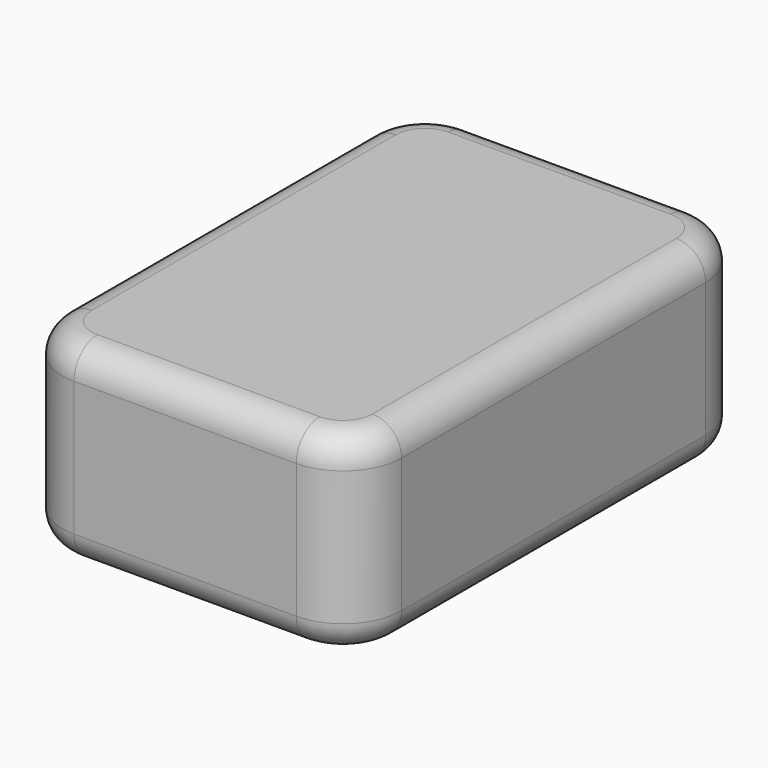
from build123d import *

# Parameters (mm, degrees)
F0_W     = 580
F0_H     = 850
F1_DEPTH = 330
F2_R     = 100
F3_R     = 50


with BuildPart() as f1:
    # F0 (on Top) → F1 (new body)
    with BuildSketch(Plane.XY):
        with Locations((290, -425)):
            Rectangle(F0_W, F0_H)
    extrude(amount=F1_DEPTH)

    # F2
    f2_edges = [f1.edges().sort_by_distance(p)[0] for p in [
        (580, -850, 165),
        (580, 0, 165),
        (0, -850, 165),
        (0, 0, 165),
    ]]
    fillet(f2_edges, radius=F2_R)

    # F3
    f3_edges = [f1.edges().sort_by_distance(p)[0] for p in [
        (290, 0, 330),
        (550.710678, -29.289322, 330),
        (29.289322, -29.289322, 330),
        (580, -425, 330),
        (0, -425, 330),
        (550.710678, -820.710678, 330),
        (29.289322, -820.710678, 330),
        (290, -850, 330),
        (290, 0, 0),
        (550.710678, -29.289322, 0),
        (29.289322, -29.289322, 0),
        (580, -425, 0),
        (0, -425, 0),
        (550.710678, -820.710678, 0),
        (29.289322, -820.710678, 0),
        (290, -850, 0),
    ]]
    fillet(f3_edges, radius=F3_R)


solid = f1.part
